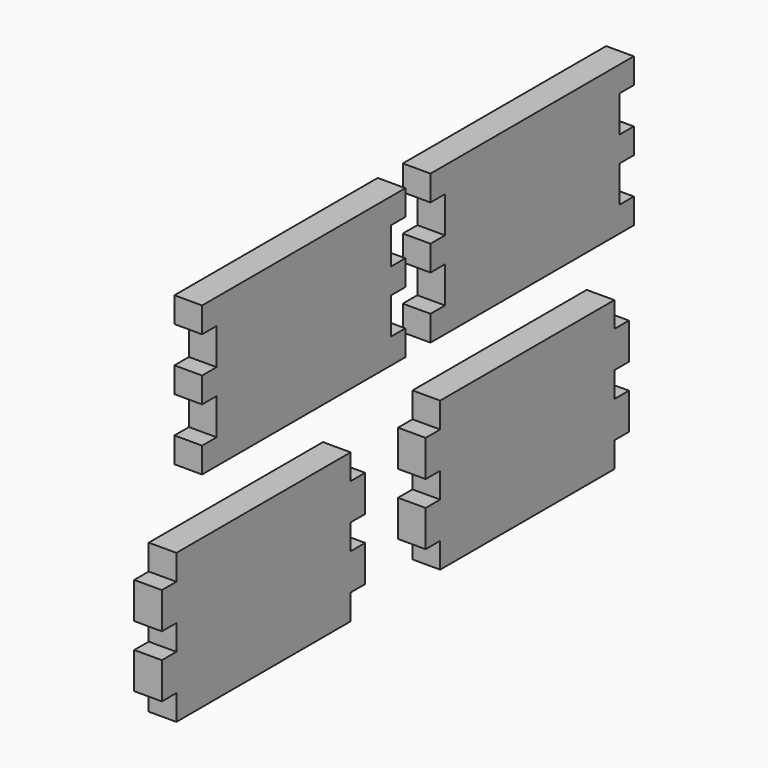
from build123d import *

# Parameters (mm, degrees)
F2_DEPTH = 6.096
F3_DEPTH = 7.62


with BuildPart() as f2:
    # F0 (on Right) → F2 (new body)
    with BuildSketch(Plane.YZ):
        Polygon((-1.752106, -2.966015), (-61.752106, -2.966015), (-61.752106, -9.966015), (-66.752106, -9.966015), (-66.752106, -19.966015), (-61.752106, -19.966015), (-61.752106, -26.966015), (-66.752106, -26.966015), (-66.752106, -36.966015), (-61.752106, -36.966015), (-61.752106, -43.966015), (-1.752106, -43.966015), (-1.752106, -36.966015), (3.247894, -36.966015), (3.247894, -26.966015), (-1.752106, -26.966015), (-1.752106, -19.966015), (3.247894, -19.966015), (3.247894, -9.966015), (-1.752106, -9.966015), align=None)
    extrude(amount=F2_DEPTH)

    # F0 (on Right) → F3 (join)
    with BuildSketch(Plane.YZ):
        Polygon((17.091769, 46.442319), (17.091769, 53.442319), (-52.908231, 53.442319), (-52.908231, 46.442319), (-47.908231, 46.442319), (-47.908231, 36.442319), (-52.908231, 36.442319), (-52.908231, 29.442319), (-47.908231, 29.442319), (-47.908231, 19.442319), (-52.908231, 19.442319), (-52.908231, 12.442319), (17.091769, 12.442319), (17.091769, 19.442319), (12.091769, 19.442319), (12.091769, 29.442319), (17.091769, 29.442319), (17.091769, 36.442319), (12.091769, 36.442319), (12.091769, 46.442319), align=None)
        Polygon((30.75294, 36.442319), (25.75294, 36.442319), (25.75294, 29.442319), (30.75294, 29.442319), (30.75294, 19.442319), (25.75294, 19.442319), (25.75294, 12.442319), (95.75294, 12.442319), (95.75294, 19.442319), (90.75294, 19.442319), (90.75294, 29.442319), (95.75294, 29.442319), (95.75294, 36.442319), (90.75294, 36.442319), (90.75294, 46.442319), (95.75294, 46.442319), (95.75294, 53.442319), (25.75294, 53.442319), (25.75294, 46.442319), (30.75294, 46.442319), align=None)
        Polygon((-1.752106, -2.966015), (-61.752106, -2.966015), (-61.752106, -9.966015), (-66.752106, -9.966015), (-66.752106, -19.966015), (-61.752106, -19.966015), (-61.752106, -26.966015), (-66.752106, -26.966015), (-66.752106, -36.966015), (-61.752106, -36.966015), (-61.752106, -43.966015), (-1.752106, -43.966015), (-1.752106, -36.966015), (3.247894, -36.966015), (3.247894, -26.966015), (-1.752106, -26.966015), (-1.752106, -19.966015), (3.247894, -19.966015), (3.247894, -9.966015), (-1.752106, -9.966015), align=None)
        Polygon((89.076876, -9.966015), (89.076876, -2.966015), (29.076876, -2.966015), (29.076876, -9.966015), (24.076876, -9.966015), (24.076876, -19.966015), (29.076876, -19.966015), (29.076876, -26.966015), (24.076876, -26.966015), (24.076876, -36.966015), (29.076876, -36.966015), (29.076876, -43.966015), (89.076876, -43.966015), (89.076876, -36.966015), (94.076876, -36.966015), (94.076876, -26.966015), (89.076876, -26.966015), (89.076876, -19.966015), (94.076876, -19.966015), (94.076876, -9.966015), align=None)
    extrude(amount=F3_DEPTH)


solid = f2.part
